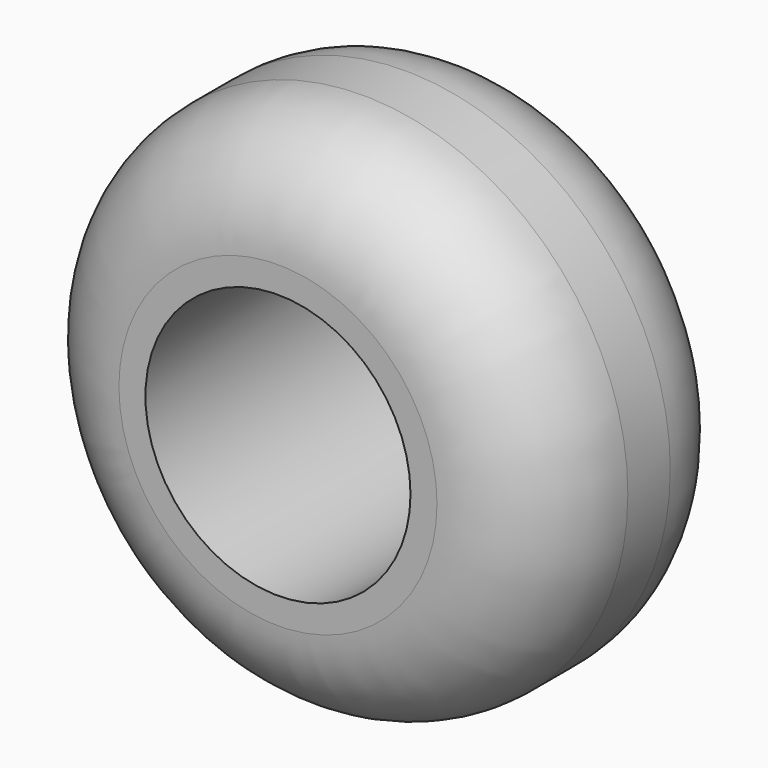
from build123d import *

# Parameters (mm, degrees)
SKETCH_R    = 50
SKETCH_R_2  = 25
PAD_DEPTH   = 50
FILLET_R    = 20
FILLET001_R = 20


with BuildPart() as part:
    # Sketch → Pad (new body)
    with BuildSketch(Plane.XZ):
        Circle(SKETCH_R)
        Circle(SKETCH_R_2, mode=Mode.SUBTRACT)
    extrude(amount=PAD_DEPTH)

    # Fillet
    fillet_edges = [part.edges().sort_by_distance(p)[0] for p in [
        (-50, -50, 0),
    ]]
    fillet(fillet_edges, radius=FILLET_R)

    # Fillet001
    fillet001_edges = [part.edges().sort_by_distance(p)[0] for p in [
        (-50, 0, 0),
    ]]
    fillet(fillet001_edges, radius=FILLET001_R)


solid = part.part
